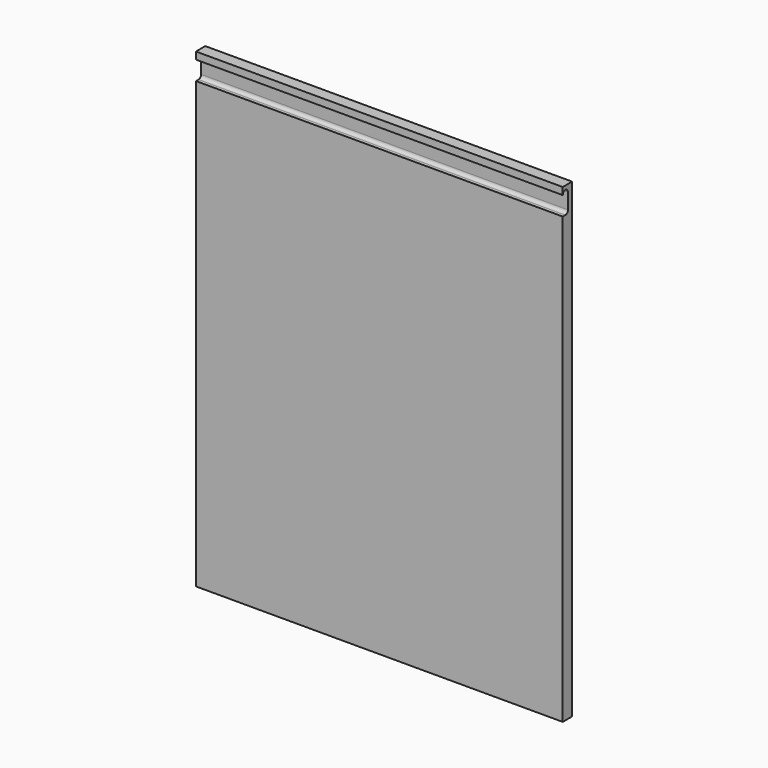
from build123d import *

# Parameters (mm, degrees)
F0_W     = 282
F0_H     = 724
F1_DEPTH = 18
F2_DEPTH = 18
F4_DEPTH = 661


with BuildPart() as f1:
    # F0 (on Front) → F1 (new body)
    with BuildSketch(Plane.XZ):
        with Locations((-190.360298, -150.304371)):
            Rectangle(F0_W, F0_H)
    extrude(amount=F1_DEPTH)


with BuildPart() as f2:
    # F0 (on Front) → F2 (new body)
    with BuildSketch(Plane.XZ):
        with Locations((-190.360298, -150.304371)):
            Rectangle(F0_W, F0_H)
        with Locations((-472.360298, -150.304371)):
            Rectangle(F0_W, F0_H)
    extrude(amount=F2_DEPTH)


with BuildPart() as f4_tool:
    # F3 (on face) → F4 (new body)
    with BuildSketch(Plane(origin=(-613.360298, 0, 0), x_dir=(0, -1, 0), z_dir=(-1, 0, 0))):
        with BuildLine():
            Line((13, 171.695629), (18, 171.695629))
            Line((18, 171.695629), (18, 200.695629))
            ThreePointArc((18, 200.695629), (13, 205.695629), (8, 200.695629))
            Line((8, 200.695629), (8, 176.695629))
            ThreePointArc((8, 176.695629), (9.464466, 173.160095), (13, 171.695629))
        make_face()
    extrude(amount=-F4_DEPTH)


with BuildPart() as f1_1:
    add(f1.part)

    # F4: cut by f4_tool
    add(f4_tool.part, mode=Mode.SUBTRACT)


with BuildPart() as f2_1:
    add(f2.part)

    # F4: cut by f4_tool
    add(f4_tool.part, mode=Mode.SUBTRACT)


solid = Compound([f1_1.part, f2_1.part])
